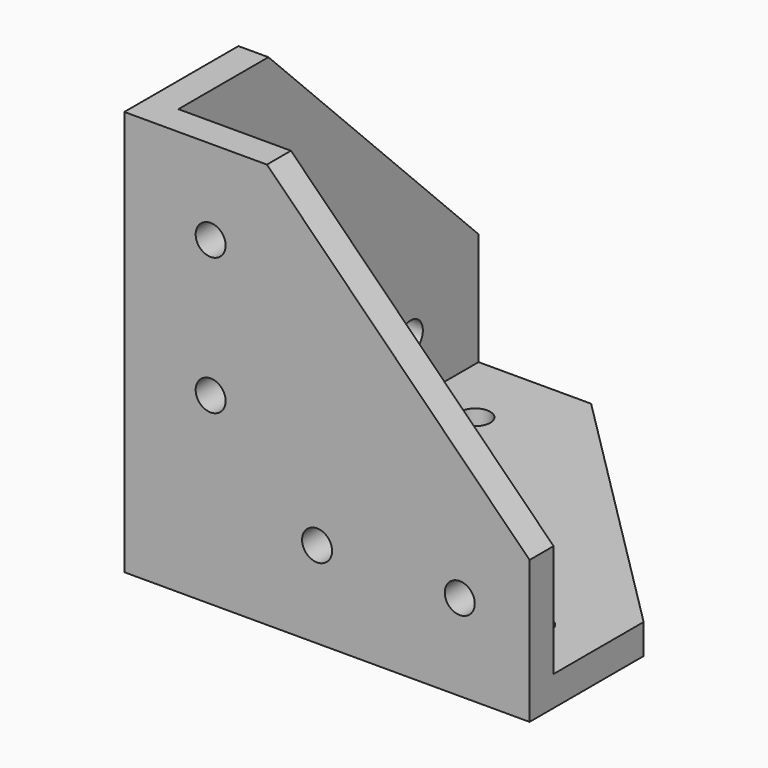
from build123d import *

# Parameters (mm, degrees)
F0_R     = 2
F1_DEPTH = 4
F2_R     = 2
F3_DEPTH = 4
F4_R     = 2
F5_DEPTH = 4
F6_R     = 10.310679
F7_DEPTH = 6.6
F8_SIZE  = 5


with BuildPart() as f1:
    # F0 (on Top) → F1 (new body)
    with BuildSketch(Plane.XY):
        Polygon((15, 50), (0, 50), (-4, 50), (-4, 0), (-4, -4), (50, -4), (50, 0), (50, 15), align=None)
        with Locations((26.219012, 7.5)):
            Circle(F0_R, mode=Mode.SUBTRACT)
        with Locations((41.652899, 7.5)):
            Circle(F0_R, mode=Mode.SUBTRACT)
        with Locations((7.5, 24.26653)):
            Circle(F0_R, mode=Mode.SUBTRACT)
        with Locations((7.5, 40.072314)):
            Circle(F0_R, mode=Mode.SUBTRACT)
    extrude(amount=F1_DEPTH)

    # F2 (on face) → F3 (join)
    with BuildSketch(Plane.XZ.offset(4)):
        Polygon((-4, 54), (-4, 4), (50, 4), (50, 19), (15, 54), align=None)
        with Locations((21.682408, 11.5)):
            Circle(F2_R, mode=Mode.SUBTRACT)
        with Locations((7.5, 24.480278)):
            Circle(F2_R, mode=Mode.SUBTRACT)
        with Locations((40.694896, 11.5)):
            Circle(F2_R, mode=Mode.SUBTRACT)
        with Locations((7.5, 42.723257)):
            Circle(F2_R, mode=Mode.SUBTRACT)
    extrude(amount=-F3_DEPTH)

    # F4 (on face) → F5 (join)
    with BuildSketch(Plane(origin=(-4, 0, 0), x_dir=(0, -1, 0), z_dir=(-1, 0, 0))):
        Polygon((-50, 0), (0, 0), (0, 54), (-15, 54), (-50, 19), align=None)
        with Locations((-38.723257, 11.5)):
            Circle(F4_R, mode=Mode.SUBTRACT)
        with Locations((-20.480278, 11.5)):
            Circle(F4_R, mode=Mode.SUBTRACT)
        with Locations((-7.5, 25.682408)):
            Circle(F4_R, mode=Mode.SUBTRACT)
        with Locations((-7.5, 44.694896)):
            Circle(F4_R, mode=Mode.SUBTRACT)
    extrude(amount=-F5_DEPTH)

    # F6 (on face) → F7 (join)
    with BuildSketch(Plane(origin=(0, 0, 0), x_dir=(1, 0, 0), z_dir=(0, 0, -1))):
        with Locations((23, -23)):
            Circle(F6_R)
    extrude(amount=F7_DEPTH)

    # F8
    f8_edges = [f1.edges().sort_by_distance(p)[0] for p in [
        (12.689321, 23, -6.6),
    ]]
    chamfer(f8_edges, length=F8_SIZE)


solid = f1.part
